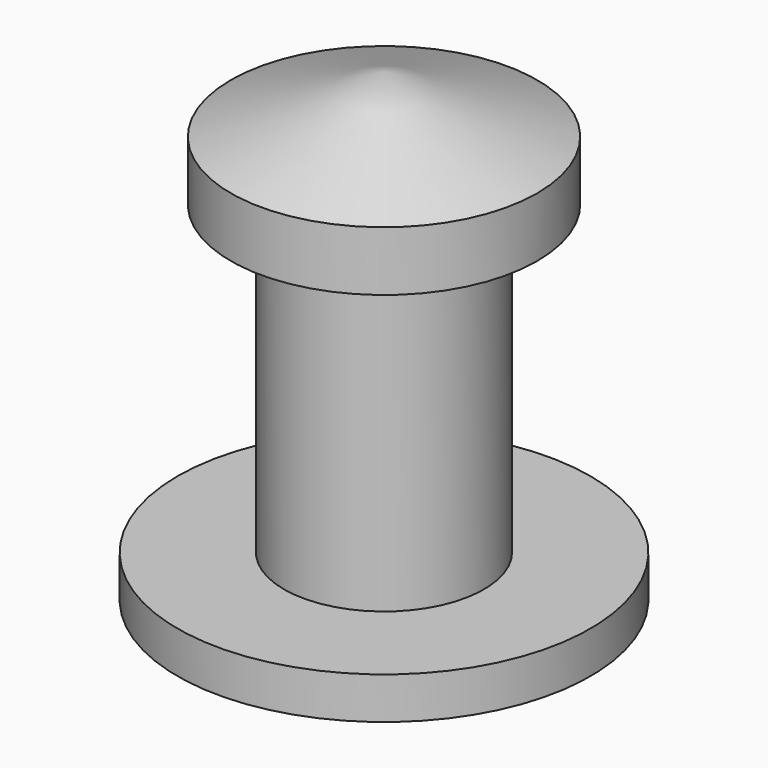
from build123d import *


with BuildPart() as f1:
    # F0 (on Front) → F1 (revolve)
    with BuildSketch(Plane.XZ):
        Polygon((0, -41.274592), (0, 57.216074), (-37.00367, 57.216074), (-37.00367, 42.812299), (-24.157064, 37.751514), (-24.157064, -31.153025), (-49.850281, -31.153025), (-49.850281, -41.274592), align=None)
        Polygon((-37.00367, 57.216074), (0, 57.216074), (0, 70.977174), align=None)
    revolve(axis=Axis((0, 0, 7.970741), (0, 0, 1)))


solid = f1.part
